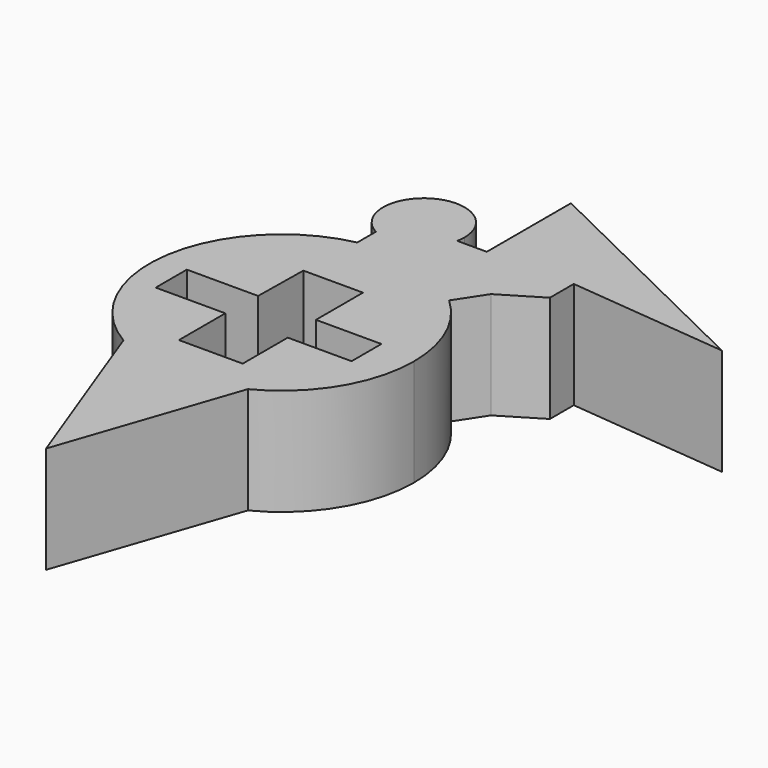
from build123d import *

# Parameters (mm, degrees)
F1_DEPTH = 25


with BuildPart() as f1:
    # F0 (on Top) → F1 (new body)
    with BuildSketch(Plane.XY):
        with BuildLine():
            ThreePointArc((20.906867, 22.848913), (13.575228, 27.836723), (5.130714, 30.542523))
            ThreePointArc((5.130714, 30.542523), (-0.713577, 30.962247), (-6.532326, 30.273729))
            ThreePointArc((-6.532326, 30.273729), (-30.576246, 4.925761), (-15.709158, -26.690678))
            ThreePointArc((-15.709158, -26.690678), (-0.912134, -30.957034), (14.110414, -27.569297))
            ThreePointArc((14.110414, -27.569297), (26.421356, -16.158029), (30.970469, 0))
            ThreePointArc((30.970469, 0), (28.343125, 12.483478), (20.906867, 22.848913))
        make_face()
        Polygon((-7.467673, 2.424569), (-7.273707, 15.420259), (6.69181, 15.420259), (6.69181, 1.648707), (22.015087, 1.648707), (22.015087, -7.079741), (7.079741, -7.079741), (7.079741, -20.269398), (-7.855604, -20.269398), (-7.855604, -6.691811), (-24.148708, -6.691811), (-24.148708, 2.424569), align=None, mode=Mode.SUBTRACT)
        with BuildLine():
            ThreePointArc((-6.532326, 35.712912), (-0.337296, 34.727729), (5.130714, 37.801791))
            ThreePointArc((5.130714, 37.801791), (6.5142, 39.851303), (7.324579, 42.187501))
            ThreePointArc((7.324579, 42.187501), (7.472775, 43.148763), (7.522346, 44.120117))
            ThreePointArc((7.522346, 44.120117), (-6.917762, 52.308751), (-6.532326, 35.712912))
        make_face()
        with BuildLine():
            ThreePointArc((-6.532326, 30.273729), (-0.713577, 30.962247), (5.130714, 30.542523))
            Line((5.130714, 30.542523), (5.130714, 37.801791))
            ThreePointArc((5.130714, 37.801791), (-0.337296, 34.727729), (-6.532326, 35.712912))
            Line((-6.532326, 35.712912), (-6.532326, 30.273729))
        make_face()
        with BuildLine():
            ThreePointArc((14.110414, -27.569297), (-0.912134, -30.957034), (-15.709158, -26.690678))
            Line((-15.709158, -26.690678), (0, -68.954743))
            Line((0, -68.954743), (14.110414, -27.569297))
        make_face()
        with BuildLine():
            Line((5.130714, 37.801791), (5.130714, 30.542523))
            ThreePointArc((5.130714, 30.542523), (13.575228, 27.836723), (20.906867, 22.848913))
            Line((20.906867, 22.848913), (25.3125, 29.579744))
            Line((25.3125, 29.579744), (34.622848, 35.204742))
            Line((34.622848, 35.204742), (34.622848, 42.187501))
            Line((34.622848, 42.187501), (72.252154, 38.502157))
            Line((72.252154, 38.502157), (14.256467, 66.821128))
            Line((14.256467, 66.821128), (14.256467, 42.187501))
            Line((14.256467, 42.187501), (7.324579, 42.187501))
            ThreePointArc((7.324579, 42.187501), (6.5142, 39.851303), (5.130714, 37.801791))
        make_face()
    extrude(amount=F1_DEPTH)


solid = f1.part
